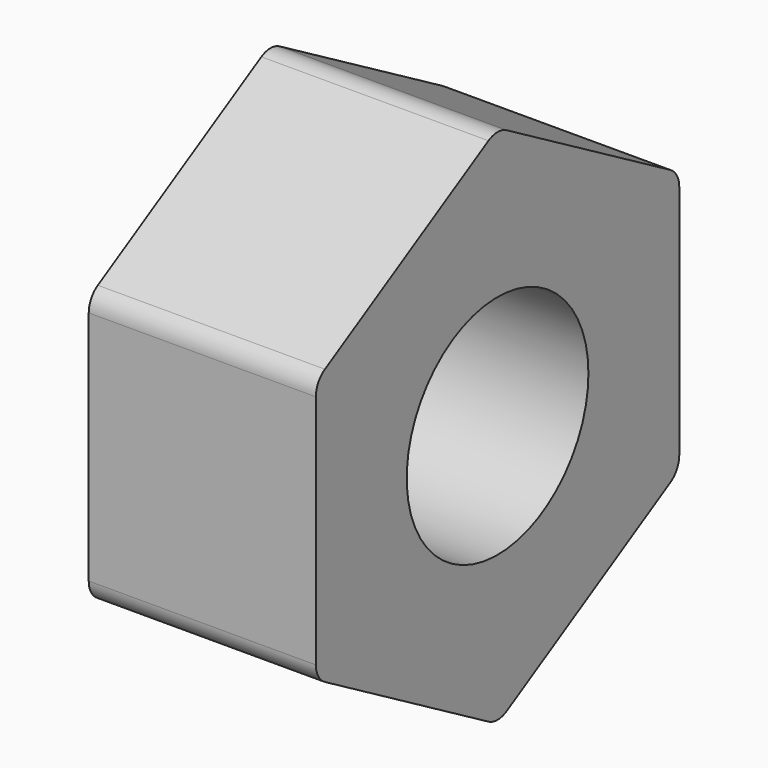
from build123d import *

# Parameters (mm, degrees)
F0_R     = 6.35
F1_DEPTH = 12.7
F2_R     = 1.27


with BuildPart() as f1:
    # F0 (on Right) → F1 (new body)
    with BuildSketch(Plane.YZ):
        Polygon((12.7, 7.332348), (0, 14.664697), (-12.7, 7.332348), (-12.7, -7.332348), (0, -14.664697), (12.7, -7.332348), align=None)
        Circle(F0_R, mode=Mode.SUBTRACT)
    extrude(amount=F1_DEPTH)

    # F2
    f2_edges = [f1.edges().sort_by_distance(p)[0] for p in [
        (6.35, -12.7, -7.332348),
        (6.35, -12.7, 7.332348),
        (6.35, 0, -14.664697),
        (6.35, 12.7, -7.332348),
        (6.35, 12.7, 7.332348),
        (6.35, 0, 14.664697),
    ]]
    fillet(f2_edges, radius=F2_R)


solid = f1.part
